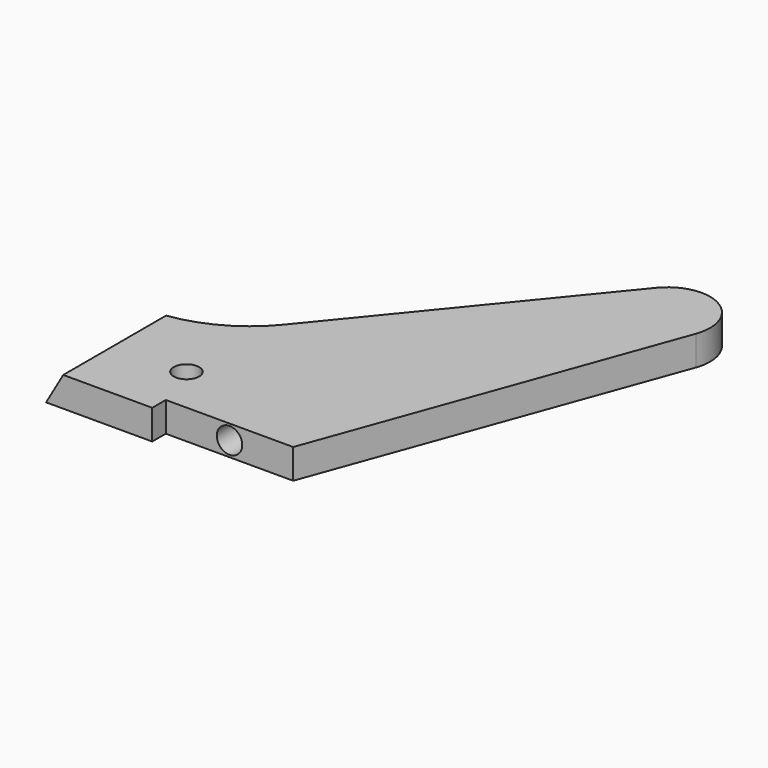
from build123d import *

# Parameters (mm, degrees)
PAD002_DEPTH             = 7
SKETCH025_R              = 3
POCKET018_DEPTH          = 15
POCKET019_DEPTH          = 98.908358
SKETCH028_R              = 3
POCKET021_DEPTH          = 7.001
CLONE003_PLACEMENT_ANGLE = 180


with BuildPart() as part:
    # Sketch023 → Pad002 (new body)
    with BuildSketch(Plane.XY):
        with BuildLine():
            Line((75.261973, 88.907358), (50.261973, 88.907358))
            Line((50.261973, 84.907358), (50.261973, 88.907358))
            Line((50.261973, 84.907358), (20.261973, 84.907358))
            Line((-9.396926, 3.420201), (20.261973, 84.907358))
            ThreePointArc((-9.396926, 3.420201), (-4.942745, -8.693059), (7.744606, -6.326221))
            Line((7.744606, -6.326221), (52.028155, 47.886022))
            ThreePointArc((75.261973, 58.907358), (62.404289, 56.012339), (52.028155, 47.886022))
            Line((75.261973, 88.907358), (75.261973, 58.907358))
        make_face()
    extrude(amount=PAD002_DEPTH)

    # Sketch025 (on Face4 of Pad002) → Pocket018 (cut)
    with BuildSketch(Plane(origin=(0, 84.907358, 0), x_dir=(-1, 0, 0), z_dir=(0, 1, 0))):
        with Locations((-35.261973, 3.5)):
            Circle(SKETCH025_R)
    extrude(amount=-POCKET018_DEPTH, mode=Mode.SUBTRACT)

    # Sketch026 (on Face2 of Pocket018) → Pocket019 (cut, through all)
    with BuildSketch(Plane(origin=(0, 88.907358, 0), x_dir=(-1, 0, 0), z_dir=(0, 1, 0))):
        Polygon((-75.261973, 7), (-75.261973, 0), (-71.220521, 7), align=None)
    extrude(amount=-POCKET019_DEPTH, mode=Mode.SUBTRACT)

    # Sketch028 → Pocket021 (cut, through all)
    with BuildSketch(Plane.XY.offset(7)):
        with Locations((54.303425, 73.770624)):
            Circle(SKETCH028_R)
    extrude(amount=-POCKET021_DEPTH, mode=Mode.SUBTRACT)


with BuildPart() as part_1:
    # Body002 placement: moved
    add(part.part.moved(Location((-250, 0, 0))))


with BuildPart() as part_2:
    # Clone003 placement: moved
    add(part_1.part.moved(Location((-169, 100, 0))).rotate(Axis((-169, 100, 0), (0, 0, 1)), CLONE003_PLACEMENT_ANGLE))


solid = part_2.part
